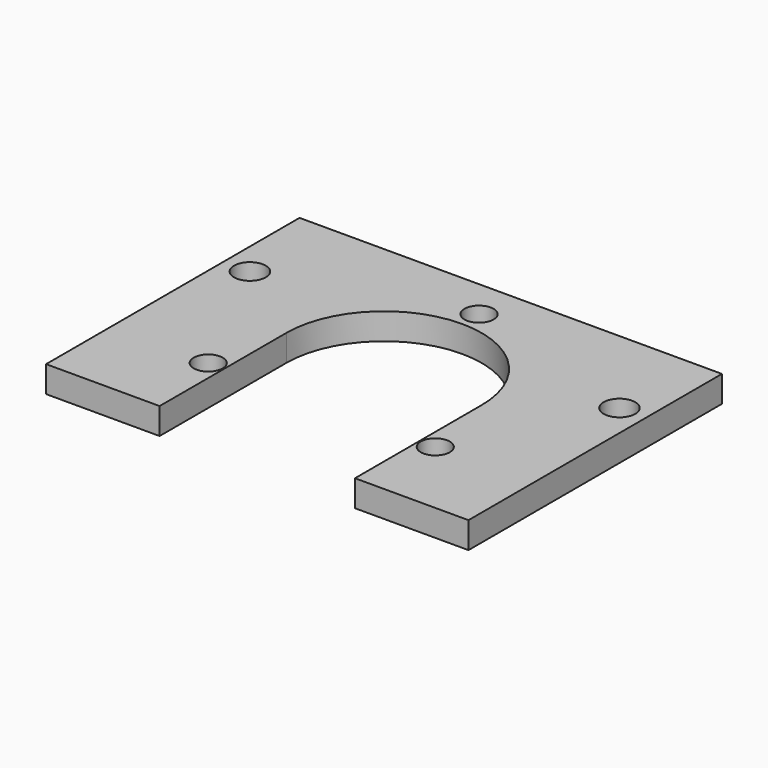
from build123d import *

# Parameters (mm, degrees)
F0_R     = 2.75
F0_R_2   = 3
F1_DEPTH = 5


with BuildPart() as f1:
    # F0 (on Top) → F1 (new body)
    with BuildSketch(Plane.XY):
        with BuildLine():
            Line((-40, 30), (-40, -30))
            Line((-40, -30), (-18.5, -30))
            Line((-18.5, -30), (-18.5, 0))
            ThreePointArc((-18.5, 0), (0, 18.5), (18.5, 0))
            Line((18.5, 0), (18.5, -30))
            Line((18.5, -30), (40, -30))
            Line((40, -30), (40, 30))
            Line((40, 30), (-40, 30))
        make_face()
        with Locations((-21.5, -14.739092)):
            Circle(F0_R, mode=Mode.SUBTRACT)
        with Locations((21.5, -14.739092)):
            Circle(F0_R, mode=Mode.SUBTRACT)
        with Locations((-35, 12)):
            Circle(F0_R_2, mode=Mode.SUBTRACT)
        with Locations((35, 12)):
            Circle(F0_R_2, mode=Mode.SUBTRACT)
        with Locations((0, 22.5)):
            Circle(F0_R, mode=Mode.SUBTRACT)
    extrude(amount=F1_DEPTH)


solid = f1.part
